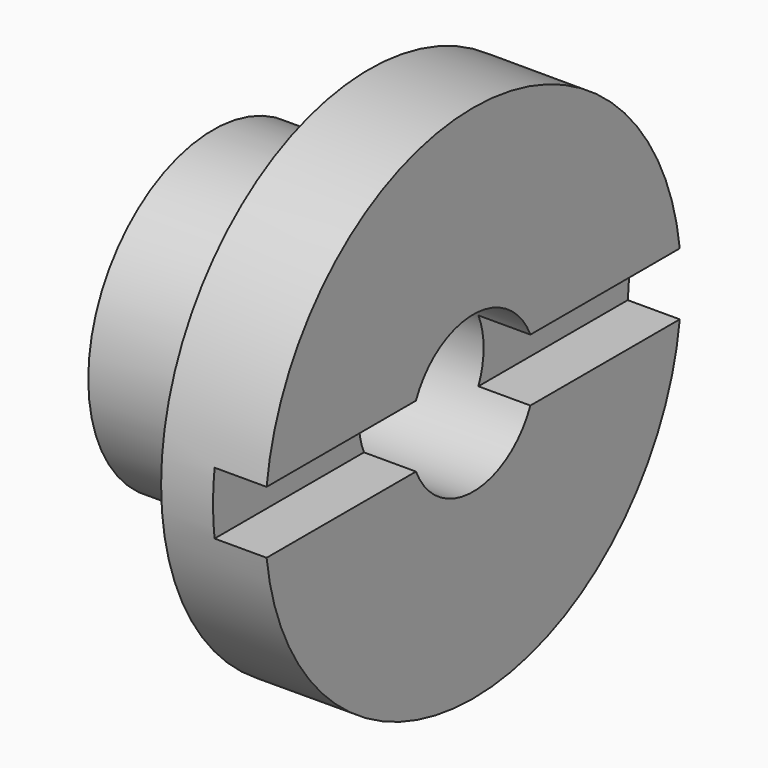
from build123d import *

# Parameters (mm, degrees)
F2_R     = 15
F3_DEPTH = 50.001
F5_DEPTH = 30
F7_DEPTH = 10
F8_R     = 5


with BuildPart() as f1:
    # F0 (on Top) → F1 (revolve)
    with BuildSketch(Plane.XY):
        Polygon((40, 0), (0, 0), (0, -15), (50, -15), (50, -6), (40, -6), align=None)
        Polygon((50, -15), (0, -15), (0, -30), (30, -30), (30, -50), (50, -50), align=None)
    revolve(axis=Axis((20, 0, 0), (-1, 0, 0)))

    # F2 (on face) → F3 (cut, through all)
    with BuildSketch(Plane(origin=(0, 0, 0), x_dir=(0, -1, 0), z_dir=(-1, 0, 0))):
        Circle(F2_R)
    extrude(amount=-F3_DEPTH, mode=Mode.SUBTRACT)

    # F4 (on face) → F5 (cut, through all)
    with BuildSketch(Plane(origin=(0, 0, 0), x_dir=(0, -1, 0), z_dir=(-1, 0, 0))):
        with BuildLine():
            Line((14.6969384567, -3), (18, -3))
            Line((18, -3), (18, 3))
            Line((18, 3), (14.6969384567, 3))
            ThreePointArc((14.6969384567, 3), (14.9240422951, 1.5076344301), (15, 0))
            ThreePointArc((15, 0), (14.9240422951, -1.5076344301), (14.6969384567, -3))
        make_face()
    extrude(amount=-F5_DEPTH, mode=Mode.SUBTRACT)

    # F6 (on face) → F7 (cut)
    with BuildSketch(Plane.YZ.offset(50)):
        with BuildLine():
            ThreePointArc((-49.638694584, 6), (-50, 0), (-49.638694584, -6))
            Line((-49.638694584, -6), (-13.7477270849, -6))
            ThreePointArc((-13.7477270849, -6), (-15, 0), (-13.7477270849, 6))
            Line((-13.7477270849, 6), (-49.638694584, 6))
        make_face()
        with BuildLine():
            Line((13.7477270849, -6), (49.638694584, -6))
            ThreePointArc((49.638694584, -6), (49.9095919098, -3.0054343115), (50, 0))
            ThreePointArc((50, 0), (49.9095919098, 3.0054343115), (49.638694584, 6))
            Line((49.638694584, 6), (13.7477270849, 6))
            ThreePointArc((13.7477270849, 6), (14.683594694, 3.0646446553), (15, 0))
            ThreePointArc((15, 0), (14.683594694, -3.0646446553), (13.7477270849, -6))
        make_face()
    extrude(amount=-F7_DEPTH, mode=Mode.SUBTRACT)

    # F8
    f8_edges = [f1.edges().sort_by_distance(p)[0] for p in [
        (30, 30, 0),
    ]]
    fillet(f8_edges, radius=F8_R)


solid = f1.part
